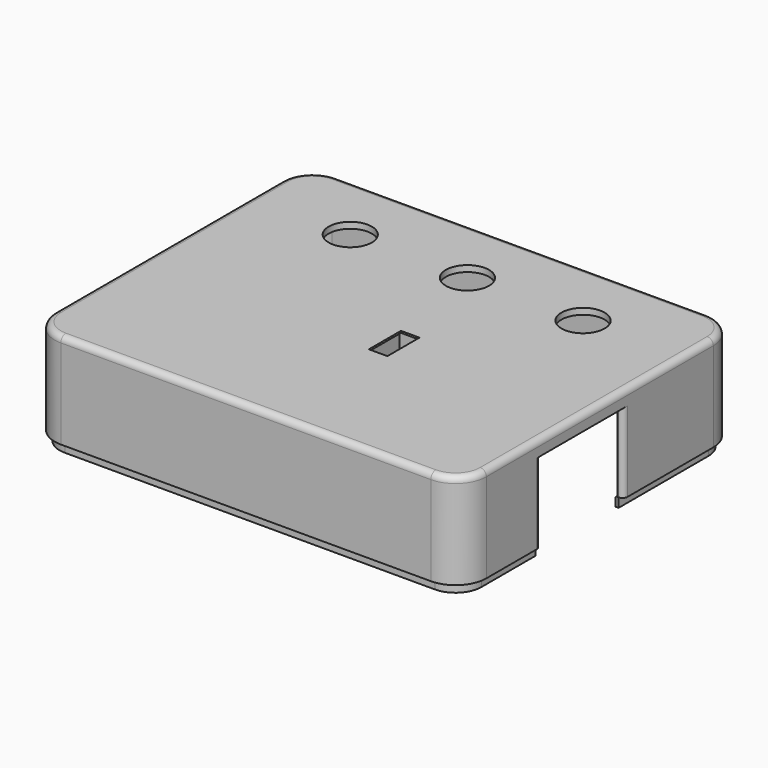
from build123d import *

# Parameters (mm, degrees)
CYLINDER019_R     = 1.25
CYLINDER019_DEPTH = 10
CYLINDER018_R     = 1.25
CYLINDER018_DEPTH = 10
CYLINDER017_R     = 1.25
CYLINDER017_DEPTH = 10
BOX005_W          = 5
BOX005_H          = 8.5
BOX005_DEPTH      = 13.5
BOX006_W          = 3
BOX006_H          = 6.5
BOX006_DEPTH      = 14.5
CYLINDER015_R     = 3
CYLINDER015_DEPTH = 7.6
CYLINDER013_R     = 3
CYLINDER013_DEPTH = 7.6
CYLINDER011_R     = 3
CYLINDER011_DEPTH = 7.6
BOX003_W          = 10
BOX003_H          = 10
BOX003_DEPTH      = 6
CYLINDER002_R     = 3.5
CYLINDER002_DEPTH = 10
CYLINDER001_R     = 3.5
CYLINDER001_DEPTH = 10
CYLINDER_R        = 3.5
CYLINDER_DEPTH    = 10
BOX001_W          = 24
BOX001_H          = 16.8
BOX001_DEPTH      = 14.5
CYLINDER020_R     = 1.25
CYLINDER020_DEPTH = 10
BOX011_W          = 7.5
BOX011_H          = 7.5
BOX011_DEPTH      = 4
FILLET003_1_R     = 4
FILLET003_2_R     = 3
BOX010_W          = 7.5
BOX010_H          = 7.5
BOX010_DEPTH      = 4
FILLET002_1_R     = 4
FILLET002_2_R     = 3
BOX009_W          = 7.5
BOX009_H          = 7.5
BOX009_DEPTH      = 4
FILLET001_1_R     = 4
FILLET001_2_R     = 3
BOX004_W          = 6
BOX004_H          = 9.5
BOX004_DEPTH      = 7
CYLINDER012_R     = 4
CYLINDER012_DEPTH = 7
CYLINDER014_R     = 4
CYLINDER014_DEPTH = 7
CYLINDER016_R     = 4
CYLINDER016_DEPTH = 7
BOX008_W          = 7.5
BOX008_H          = 7.5
BOX008_DEPTH      = 4
FILLET_1_R        = 4
FILLET_2_R        = 3
BOX016_W          = 67.4
BOX016_H          = 53.4
BOX016_DEPTH      = 1.5
FILLET009_R       = 3.8
BOX013_W          = 68.4
BOX013_H          = 54.4
BOX013_DEPTH      = 1.5
FILLET008_R       = 4.2
BOX002_W          = 68
BOX002_H          = 54
BOX002_DEPTH      = 14.5
FILLET007_R       = 4
THICKNESS001_T    = 1
FILLET010_1_R     = 0.8
FILLET010_2_R     = 0.2


with BuildPart() as obj1:
    # Cylinder019 → Cylinder019 (new body)
    with BuildSketch(Plane(origin=(63.75, 49.15, -2), x_dir=(1, 0, 0), z_dir=(0, 0, 1))):
        Circle(CYLINDER019_R)
    extrude(amount=CYLINDER019_DEPTH)


with BuildPart() as obj2:
    # Cylinder018 → Cylinder018 (new body)
    with BuildSketch(Plane(origin=(4.5, 49.15, -2), x_dir=(1, 0, 0), z_dir=(0, 0, 1))):
        Circle(CYLINDER018_R)
    extrude(amount=CYLINDER018_DEPTH)


with BuildPart() as obj3:
    # Cylinder017 → Cylinder017 (new body)
    with BuildSketch(Plane(origin=(4.5, 4.65, -2), x_dir=(1, 0, 0), z_dir=(0, 0, 1))):
        Circle(CYLINDER017_R)
    extrude(amount=CYLINDER017_DEPTH)


with BuildPart() as obj4:
    # Box005 → Box005 (new body)
    with BuildSketch(Plane(origin=(35.75, 19.5, 6.2), x_dir=(1, 0, 0), z_dir=(0, 0, 1))):
        with Locations((2.5, 4.25)):
            Rectangle(BOX005_W, BOX005_H)
    extrude(amount=BOX005_DEPTH)


with BuildPart() as obj5:
    # Box006 → Box006 (new body)
    with BuildSketch(Plane(origin=(36.75, 20.5, 6.2), x_dir=(1, 0, 0), z_dir=(0, 0, 1))):
        with Locations((1.5, 3.25)):
            Rectangle(BOX006_W, BOX006_H)
    extrude(amount=BOX006_DEPTH)

    # Fusion: union obj4
    add(obj4.part)


with BuildPart() as ledhole002:
    # Cylinder015 → Cylinder015 (new body)
    with BuildSketch(Plane(origin=(40.9, 6.2, 12), x_dir=(1, 0, 0), z_dir=(0, 0, 1))):
        Circle(CYLINDER015_R)
    extrude(amount=CYLINDER015_DEPTH)


with BuildPart() as ledhole001:
    # Cylinder013 → Cylinder013 (new body)
    with BuildSketch(Plane(origin=(27.7, 6.2, 12), x_dir=(1, 0, 0), z_dir=(0, 0, 1))):
        Circle(CYLINDER013_R)
    extrude(amount=CYLINDER013_DEPTH)


with BuildPart() as ledhole:
    # Cylinder011 → Cylinder011 (new body)
    with BuildSketch(Plane(origin=(14.5, 6.2, 12), x_dir=(1, 0, 0), z_dir=(0, 0, 1))):
        Circle(CYLINDER011_R)
    extrude(amount=CYLINDER011_DEPTH)


with BuildPart() as usbhole:
    # Box003 → Box003 (new body)
    with BuildSketch(Plane(origin=(-3, 18.7, 12.8), x_dir=(1, 0, 0), z_dir=(0, 0, 1))):
        with Locations((5, 5)):
            Rectangle(BOX003_W, BOX003_H)
    extrude(amount=BOX003_DEPTH)


with BuildPart() as pothole002:
    # Cylinder002 → Cylinder002 (new body)
    with BuildSketch(Plane(origin=(53, 43.6, 11), x_dir=(1, 0, 0), z_dir=(0, 0, 1))):
        Circle(CYLINDER002_R)
    extrude(amount=CYLINDER002_DEPTH)


with BuildPart() as pothole001:
    # Cylinder001 → Cylinder001 (new body)
    with BuildSketch(Plane(origin=(34.25, 43.6, 11), x_dir=(1, 0, 0), z_dir=(0, 0, 1))):
        Circle(CYLINDER001_R)
    extrude(amount=CYLINDER001_DEPTH)


with BuildPart() as pothole:
    # Cylinder → Cylinder (new body)
    with BuildSketch(Plane(origin=(15.25, 43.6, 11), x_dir=(1, 0, 0), z_dir=(0, 0, 1))):
        Circle(CYLINDER_R)
    extrude(amount=CYLINDER_DEPTH)


with BuildPart() as obj6:
    # Box001 → Box001 (new body)
    with BuildSketch(Plane(origin=(47, 15, 3), x_dir=(1, 0, 0), z_dir=(0, 0, 1))):
        with Locations((12, 8.4)):
            Rectangle(BOX001_W, BOX001_H)
    extrude(amount=BOX001_DEPTH)


with BuildPart() as topholes:
    # Cylinder020 → Cylinder020 (new body)
    with BuildSketch(Plane(origin=(63.75, 4.65, -2), x_dir=(1, 0, 0), z_dir=(0, 0, 1))):
        Circle(CYLINDER020_R)
    extrude(amount=CYLINDER020_DEPTH)

    # Fusion009: union obj1, obj2, obj3, obj5, ledhole002, ledhole001, ledhole, UsbHole, PotHole002, PotHole001, PotHole, obj6
    add(obj1.part)
    add(obj2.part)
    add(obj3.part)
    add(obj5.part)
    add(ledhole002.part)
    add(ledhole001.part)
    add(ledhole.part)
    add(usbhole.part)
    add(pothole002.part)
    add(pothole001.part)
    add(pothole.part)
    add(obj6.part)


with BuildPart() as obj7:
    # Box011 → Box011 (new body)
    with BuildSketch(Plane.XY.offset(4)):
        with Locations((3.75, 3.75)):
            Rectangle(BOX011_W, BOX011_H)
    extrude(amount=BOX011_DEPTH)

    # Fillet003 1
    fillet003_1_edges = [obj7.edges().sort_by_distance(p)[0] for p in [
        (7.5, 7.5, 6),
    ]]
    fillet(fillet003_1_edges, radius=FILLET003_1_R)

    # Fillet003 2
    fillet003_2_edges = [obj7.edges().sort_by_distance(p)[0] for p in [
        (0, 0, 6),
    ]]
    fillet(fillet003_2_edges, radius=FILLET003_2_R)


with BuildPart() as obj7_1:
    # Fillet003 placement: moved
    add(obj7.part.moved(Location((60.5, 46.5, 0))))


with BuildPart() as obj8:
    # Box010 → Box010 (new body)
    with BuildSketch(Plane.XY.offset(4)):
        with Locations((3.75, 3.75)):
            Rectangle(BOX010_W, BOX010_H)
    extrude(amount=BOX010_DEPTH)

    # Fillet002 1
    fillet002_1_edges = [obj8.edges().sort_by_distance(p)[0] for p in [
        (7.5, 0, 6),
    ]]
    fillet(fillet002_1_edges, radius=FILLET002_1_R)

    # Fillet002 2
    fillet002_2_edges = [obj8.edges().sort_by_distance(p)[0] for p in [
        (0, 7.5, 6),
    ]]
    fillet(fillet002_2_edges, radius=FILLET002_2_R)


with BuildPart() as obj8_1:
    # Fillet002 placement: moved
    add(obj8.part.moved(Location((60.5, 0, 0))))


with BuildPart() as obj9:
    # Box009 → Box009 (new body)
    with BuildSketch(Plane.XY.offset(4)):
        with Locations((3.75, 3.75)):
            Rectangle(BOX009_W, BOX009_H)
    extrude(amount=BOX009_DEPTH)

    # Fillet001 1
    fillet001_1_edges = [obj9.edges().sort_by_distance(p)[0] for p in [
        (0, 7.5, 6),
    ]]
    fillet(fillet001_1_edges, radius=FILLET001_1_R)

    # Fillet001 2
    fillet001_2_edges = [obj9.edges().sort_by_distance(p)[0] for p in [
        (7.5, 0, 6),
    ]]
    fillet(fillet001_2_edges, radius=FILLET001_2_R)


with BuildPart() as obj9_1:
    # Fillet001 placement: moved
    add(obj9.part.moved(Location((0, 46.5, 0))))


with BuildPart() as obj10:
    # Box004 → Box004 (new body)
    with BuildSketch(Plane(origin=(35.25, 19, 12), x_dir=(1, 0, 0), z_dir=(0, 0, 1))):
        with Locations((3, 4.75)):
            Rectangle(BOX004_W, BOX004_H)
    extrude(amount=BOX004_DEPTH)


with BuildPart() as ledtube:
    # Cylinder012 → Cylinder012 (new body)
    with BuildSketch(Plane(origin=(14.5, 6.2, 12), x_dir=(1, 0, 0), z_dir=(0, 0, 1))):
        Circle(CYLINDER012_R)
    extrude(amount=CYLINDER012_DEPTH)


with BuildPart() as ledtube001:
    # Cylinder014 → Cylinder014 (new body)
    with BuildSketch(Plane(origin=(27.7, 6.2, 12), x_dir=(1, 0, 0), z_dir=(0, 0, 1))):
        Circle(CYLINDER014_R)
    extrude(amount=CYLINDER014_DEPTH)


with BuildPart() as ledtube002:
    # Cylinder016 → Cylinder016 (new body)
    with BuildSketch(Plane(origin=(40.9, 6.2, 12), x_dir=(1, 0, 0), z_dir=(0, 0, 1))):
        Circle(CYLINDER016_R)
    extrude(amount=CYLINDER016_DEPTH)


with BuildPart() as obj11:
    # Box008 → Box008 (new body)
    with BuildSketch(Plane.XY.offset(4)):
        with Locations((3.75, 3.75)):
            Rectangle(BOX008_W, BOX008_H)
    extrude(amount=BOX008_DEPTH)

    # Fillet 1
    fillet_1_edges = [obj11.edges().sort_by_distance(p)[0] for p in [
        (0, 0, 6),
    ]]
    fillet(fillet_1_edges, radius=FILLET_1_R)

    # Fillet 2
    fillet_2_edges = [obj11.edges().sort_by_distance(p)[0] for p in [
        (7.5, 7.5, 6),
    ]]
    fillet(fillet_2_edges, radius=FILLET_2_R)


with BuildPart() as fillet009:
    # Box016 → Box016 (new body)
    with BuildSketch(Plane(origin=(0.3, 0.3, 3), x_dir=(1, 0, 0), z_dir=(0, 0, 1))):
        with Locations((33.7, 26.7)):
            Rectangle(BOX016_W, BOX016_H)
    extrude(amount=BOX016_DEPTH)

    # Fillet009
    fillet009_edges = [fillet009.edges().sort_by_distance(p)[0] for p in [
        (0.3, 0.3, 3.75),
        (0.3, 53.7, 3.75),
        (67.7, 0.3, 3.75),
        (67.7, 53.7, 3.75),
    ]]
    fillet(fillet009_edges, radius=FILLET009_R)


with BuildPart() as snaptop:
    # Box013 → Box013 (new body)
    with BuildSketch(Plane(origin=(-0.2, -0.2, 3), x_dir=(1, 0, 0), z_dir=(0, 0, 1))):
        with Locations((34.2, 27.2)):
            Rectangle(BOX013_W, BOX013_H)
    extrude(amount=BOX013_DEPTH)

    # Fillet008
    fillet008_edges = [snaptop.edges().sort_by_distance(p)[0] for p in [
        (-0.2, -0.2, 3.75),
        (-0.2, 54.2, 3.75),
        (68.2, -0.2, 3.75),
        (68.2, 54.2, 3.75),
    ]]
    fillet(fillet008_edges, radius=FILLET008_R)

    # Cut: cut Fillet009
    add(fillet009.part, mode=Mode.SUBTRACT)


with BuildPart() as top:
    # Box002 → Box002 (new body)
    with BuildSketch(Plane.XY.offset(4.5)):
        with Locations((34, 27)):
            Rectangle(BOX002_W, BOX002_H)
    extrude(amount=BOX002_DEPTH)

    # Fillet007
    fillet007_edges = [top.edges().sort_by_distance(p)[0] for p in [
        (0, 0, 11.75),
        (0, 54, 11.75),
        (68, 0, 11.75),
        (68, 54, 11.75),
    ]]
    fillet(fillet007_edges, radius=FILLET007_R)

    # Thickness001
    thickness001_openings = [top.faces().sort_by_distance(p)[0] for p in [
        (34, 27, 4.5),
    ]]
    offset(amount=THICKNESS001_T, openings=thickness001_openings)

    # Fusion008: union obj7, obj8, obj9, PotHole, obj10, ledtube, ledtube001, ledtube002, obj11, snaptop
    add(obj7_1.part)
    add(obj8_1.part)
    add(obj9_1.part)
    add(pothole.part)
    add(obj10.part)
    add(ledtube.part)
    add(ledtube001.part)
    add(ledtube002.part)
    add(obj11.part)
    add(snaptop.part)

    # Cut004: cut TopHoles
    add(topholes.part, mode=Mode.SUBTRACT)

    # Fillet010 1
    fillet010_1_edges = [top.edges().sort_by_distance(p)[0] for p in [
        (-1, 28.7, 15.8),
        (-1, 18.7, 15.8),
        (69, 31.8, 11),
        (69, 15, 11),
    ]]
    fillet(fillet010_1_edges, radius=FILLET010_1_R)

    # Fillet010 2
    fillet010_2_edges = [top.edges().sort_by_distance(p)[0] for p in [
        (0.3, 27, 4.5),
        (34, 0.3, 4.5),
        (34, 53.7, 4.5),
        (67.7, 39.15, 4.5),
        (67.7, 11.25, 4.5),
    ]]
    fillet(fillet010_2_edges, radius=FILLET010_2_R)


solid = top.part
